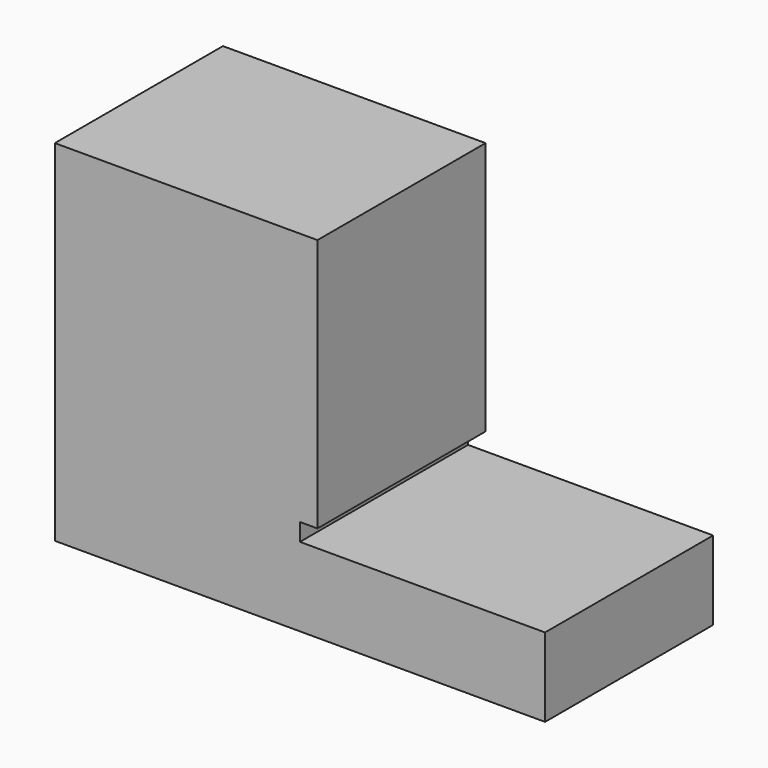
from build123d import *

# Parameters (mm, degrees)
F0_W     = 177.8
F0_H     = 127
F1_DEPTH = 76.2
F2_W     = 76.2
F2_H     = 92.075
F3_DEPTH = 82.55
F4_W     = 76.2
F4_H     = 6.35
F5_DEPTH = 88.9


with BuildPart() as f1:
    # F0 (on Front) → F1 (new body)
    with BuildSketch(Plane.XZ):
        with Locations((88.9, 63.5)):
            Rectangle(F0_W, F0_H)
    extrude(amount=F1_DEPTH)

    # F2 (on face) → F3 (cut)
    with BuildSketch(Plane.YZ.offset(177.8)):
        with Locations((-38.1, 80.9625)):
            Rectangle(F2_W, F2_H)
    extrude(amount=-F3_DEPTH, mode=Mode.SUBTRACT)

    # F4 (on face) → F5 (cut)
    with BuildSketch(Plane.YZ.offset(177.8)):
        with Locations((-38.1, 31.75)):
            Rectangle(F4_W, F4_H)
    extrude(amount=-F5_DEPTH, mode=Mode.SUBTRACT)


solid = f1.part
